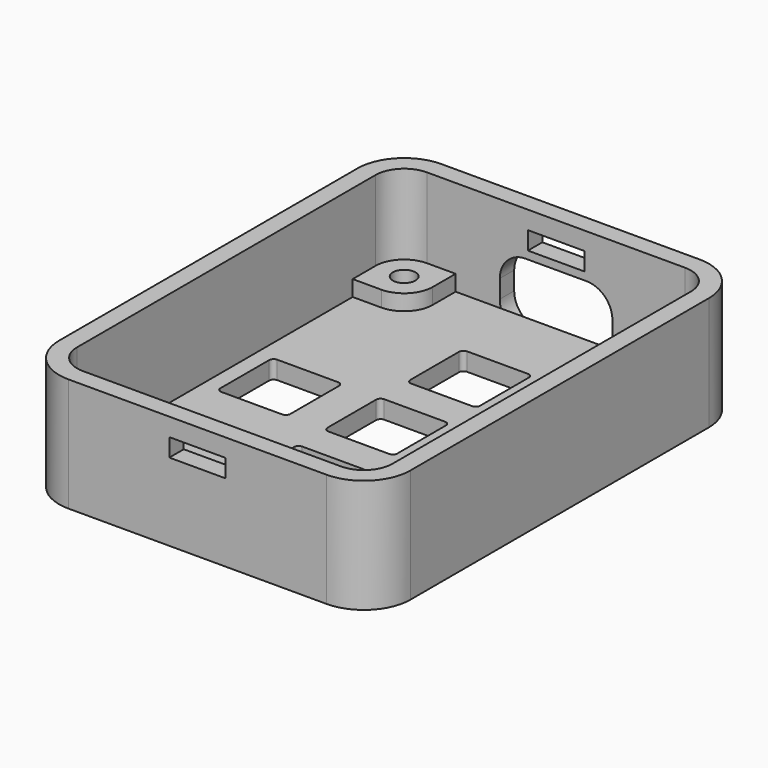
from build123d import *

# Parameters (mm, degrees)
BOX011_W          = 10
BOX011_H          = 3.2
BOX011_DEPTH      = 6.2
FILLET008_R       = 2.29
BOX013_W          = 5
BOX013_H          = 1.6
BOX013_DEPTH      = 1.6
BOX012_W          = 5
BOX012_H          = 1.6
BOX012_DEPTH      = 1.6
BOX009_W          = 6.2
BOX009_H          = 6.2
BOX009_DEPTH      = 2
FILLET004_R       = 0.4
BOX007_W          = 6.2
BOX007_H          = 6.2
BOX007_DEPTH      = 2
FILLET005_R       = 0.4
BOX010_W          = 6.2
BOX010_H          = 6.2
BOX010_DEPTH      = 2
FILLET006_R       = 0.4
BOX006_W          = 6.2
BOX006_H          = 6.2
BOX006_DEPTH      = 2
FILLET007_R       = 0.4
BOX008_W          = 6.2
BOX008_H          = 6.2
BOX008_DEPTH      = 2
FILLET003_R       = 0.4
CYLINDER003_R     = 1
CYLINDER003_DEPTH = 10
CYLINDER002_R     = 1
CYLINDER002_DEPTH = 10
CYLINDER001_R     = 1
CYLINDER001_DEPTH = 10
CYLINDER_R        = 1
CYLINDER_DEPTH    = 10
BOX002_W          = 5.08
BOX002_H          = 5.08
BOX002_DEPTH      = 3
BOX003_W          = 5.08
BOX003_H          = 5.08
BOX003_DEPTH      = 3
BOX004_W          = 5.08
BOX004_H          = 5.08
BOX004_DEPTH      = 3
BOX005_W          = 5.08
BOX005_H          = 5.08
BOX005_DEPTH      = 3
BOX001_W          = 28
BOX001_H          = 38.2
BOX001_DEPTH      = 10
BOX_W             = 31.2
BOX_H             = 41.4
BOX_DEPTH         = 10.1
FILLET_R          = 2.54
FILLET001_R       = 2.54
FILLET002_R       = 4.14


with BuildPart() as led:
    # Box011 → Box011 (new body)
    with BuildSketch(Plane(origin=(9, 38.2, 0), x_dir=(1, 0, 0), z_dir=(0, 0, 1))):
        with Locations((5, 1.6)):
            Rectangle(BOX011_W, BOX011_H)
    extrude(amount=BOX011_DEPTH)

    # Fillet008
    fillet008_edges = [led.edges().sort_by_distance(p)[0] for p in [
        (9, 39.8, 6.2),
        (9, 39.8, 0),
        (19, 39.8, 6.2),
        (19, 39.8, 0),
    ]]
    fillet(fillet008_edges, radius=FILLET008_R)


with BuildPart() as obj1:
    # Box013 → Box013 (new body)
    with BuildSketch(Plane(origin=(11.5, 38.2, 6.9), x_dir=(1, 0, 0), z_dir=(0, 0, 1))):
        with Locations((2.5, 0.8)):
            Rectangle(BOX013_W, BOX013_H)
    extrude(amount=BOX013_DEPTH)


with BuildPart() as nut:
    # Box012 → Box012 (new body)
    with BuildSketch(Plane(origin=(11.5, -1.6, 6.9), x_dir=(1, 0, 0), z_dir=(0, 0, 1))):
        with Locations((2.5, 0.8)):
            Rectangle(BOX012_W, BOX012_H)
    extrude(amount=BOX012_DEPTH)

    # Fusion003: union obj1
    add(obj1.part)


with BuildPart() as fillet004:
    # Box009 → Box009 (new body)
    with BuildSketch(Plane(origin=(1.4, 16.3, 0), x_dir=(1, 0, 0), z_dir=(0, 0, 1))):
        with Locations((3.1, 3.1)):
            Rectangle(BOX009_W, BOX009_H)
    extrude(amount=BOX009_DEPTH)

    # Fillet004
    fillet004_edges = [fillet004.edges().sort_by_distance(p)[0] for p in [
        (1.4, 16.3, 1),
        (1.4, 22.5, 1),
        (7.6, 16.3, 1),
        (7.6, 22.5, 1),
    ]]
    fillet(fillet004_edges, radius=FILLET004_R)


with BuildPart() as fillet005:
    # Box007 → Box007 (new body)
    with BuildSketch(Plane(origin=(10.9, 16.3, 0), x_dir=(1, 0, 0), z_dir=(0, 0, 1))):
        with Locations((3.1, 3.1)):
            Rectangle(BOX007_W, BOX007_H)
    extrude(amount=BOX007_DEPTH)

    # Fillet005
    fillet005_edges = [fillet005.edges().sort_by_distance(p)[0] for p in [
        (10.9, 16.3, 1),
        (10.9, 22.5, 1),
        (17.1, 16.3, 1),
        (17.1, 22.5, 1),
    ]]
    fillet(fillet005_edges, radius=FILLET005_R)


with BuildPart() as fillet006:
    # Box010 → Box010 (new body)
    with BuildSketch(Plane(origin=(20.4, 16.3, 0), x_dir=(1, 0, 0), z_dir=(0, 0, 1))):
        with Locations((3.1, 3.1)):
            Rectangle(BOX010_W, BOX010_H)
    extrude(amount=BOX010_DEPTH)

    # Fillet006
    fillet006_edges = [fillet006.edges().sort_by_distance(p)[0] for p in [
        (20.4, 16.3, 1),
        (20.4, 22.5, 1),
        (26.6, 16.3, 1),
        (26.6, 22.5, 1),
    ]]
    fillet(fillet006_edges, radius=FILLET006_R)


with BuildPart() as fillet007:
    # Box006 → Box006 (new body)
    with BuildSketch(Plane(origin=(10.9, 7.2, 0), x_dir=(1, 0, 0), z_dir=(0, 0, 1))):
        with Locations((3.1, 3.1)):
            Rectangle(BOX006_W, BOX006_H)
    extrude(amount=BOX006_DEPTH)

    # Fillet007
    fillet007_edges = [fillet007.edges().sort_by_distance(p)[0] for p in [
        (10.9, 7.2, 1),
        (10.9, 13.4, 1),
        (17.1, 7.2, 1),
        (17.1, 13.4, 1),
    ]]
    fillet(fillet007_edges, radius=FILLET007_R)


with BuildPart() as buttons:
    # Box008 → Box008 (new body)
    with BuildSketch(Plane(origin=(10.9, 25.5, 0), x_dir=(1, 0, 0), z_dir=(0, 0, 1))):
        with Locations((3.1, 3.1)):
            Rectangle(BOX008_W, BOX008_H)
    extrude(amount=BOX008_DEPTH)

    # Fillet003
    fillet003_edges = [buttons.edges().sort_by_distance(p)[0] for p in [
        (10.9, 25.5, 1),
        (10.9, 31.7, 1),
        (17.1, 25.5, 1),
        (17.1, 31.7, 1),
    ]]
    fillet(fillet003_edges, radius=FILLET003_R)

    # Fusion002: union Fillet004, Fillet005, Fillet006, Fillet007
    add(fillet004.part)
    add(fillet005.part)
    add(fillet006.part)
    add(fillet007.part)


with BuildPart() as zylinder003:
    # Cylinder003 → Cylinder003 (new body)
    with BuildSketch(Plane(origin=(25.46, 35.66, 0.4), x_dir=(1, 0, 0), z_dir=(0, 0, 1))):
        Circle(CYLINDER003_R)
    extrude(amount=CYLINDER003_DEPTH)


with BuildPart() as zylinder002:
    # Cylinder002 → Cylinder002 (new body)
    with BuildSketch(Plane(origin=(2.54, 35.66, 0.4), x_dir=(1, 0, 0), z_dir=(0, 0, 1))):
        Circle(CYLINDER002_R)
    extrude(amount=CYLINDER002_DEPTH)


with BuildPart() as zylinder001:
    # Cylinder001 → Cylinder001 (new body)
    with BuildSketch(Plane(origin=(25.46, 2.54, 0.4), x_dir=(1, 0, 0), z_dir=(0, 0, 1))):
        Circle(CYLINDER001_R)
    extrude(amount=CYLINDER001_DEPTH)


with BuildPart() as fusion001:
    # Cylinder → Cylinder (new body)
    with BuildSketch(Plane(origin=(2.54, 2.54, 0.4), x_dir=(1, 0, 0), z_dir=(0, 0, 1))):
        Circle(CYLINDER_R)
    extrude(amount=CYLINDER_DEPTH)

    # Fusion001: union Zylinder003, Zylinder002, Zylinder001
    add(zylinder003.part)
    add(zylinder002.part)
    add(zylinder001.part)


with BuildPart() as obj2:
    # Box002 → Box002 (new body)
    with BuildSketch(Plane.XY):
        with Locations((2.54, 2.54)):
            Rectangle(BOX002_W, BOX002_H)
    extrude(amount=BOX002_DEPTH)


with BuildPart() as obj3:
    # Box003 → Box003 (new body)
    with BuildSketch(Plane(origin=(22.92, 0, 0), x_dir=(1, 0, 0), z_dir=(0, 0, 1))):
        with Locations((2.54, 2.54)):
            Rectangle(BOX003_W, BOX003_H)
    extrude(amount=BOX003_DEPTH)


with BuildPart() as obj4:
    # Box004 → Box004 (new body)
    with BuildSketch(Plane(origin=(0, 33.12, 0), x_dir=(1, 0, 0), z_dir=(0, 0, 1))):
        with Locations((2.54, 2.54)):
            Rectangle(BOX004_W, BOX004_H)
    extrude(amount=BOX004_DEPTH)


with BuildPart() as obj5:
    # Box005 → Box005 (new body)
    with BuildSketch(Plane(origin=(22.92, 33.12, 0), x_dir=(1, 0, 0), z_dir=(0, 0, 1))):
        with Locations((2.54, 2.54)):
            Rectangle(BOX005_W, BOX005_H)
    extrude(amount=BOX005_DEPTH)


with BuildPart() as obj6:
    # Box001 → Box001 (new body)
    with BuildSketch(Plane.XY.offset(1.6)):
        with Locations((14, 19.1)):
            Rectangle(BOX001_W, BOX001_H)
    extrude(amount=BOX001_DEPTH)


with BuildPart() as cut005:
    # Box → Box (new body)
    with BuildSketch(Plane(origin=(-1.6, -1.6, 0), x_dir=(1, 0, 0), z_dir=(0, 0, 1))):
        with Locations((15.6, 20.7)):
            Rectangle(BOX_W, BOX_H)
    extrude(amount=BOX_DEPTH)

    # Cut: cut obj6
    add(obj6.part, mode=Mode.SUBTRACT)

    # Fusion: union obj2, obj3, obj4, obj5
    add(obj2.part)
    add(obj3.part)
    add(obj4.part)
    add(obj5.part)

    # Fillet
    fillet_edges = [cut005.edges().sort_by_distance(p)[0] for p in [
        (22.92, 33.12, 2.3),
        (22.92, 5.08, 2.3),
        (5.08, 33.12, 2.3),
        (5.08, 5.08, 2.3),
    ]]
    fillet(fillet_edges, radius=FILLET_R)

    # Fillet001
    fillet001_edges = [cut005.edges().sort_by_distance(p)[0] for p in [
        (28, 38.2, 6.55),
        (0, 38.2, 6.55),
        (28, 0, 6.55),
        (0, 0, 6.55),
    ]]
    fillet(fillet001_edges, radius=FILLET001_R)

    # Fillet002
    fillet002_edges = [cut005.edges().sort_by_distance(p)[0] for p in [
        (-1.6, -1.6, 5.05),
        (-1.6, 39.8, 5.05),
        (29.6, 39.8, 5.05),
        (29.6, -1.6, 5.05),
    ]]
    fillet(fillet002_edges, radius=FILLET002_R)

    # Cut001: cut Fusion001
    add(fusion001.part, mode=Mode.SUBTRACT)

    # Cut003: cut Buttons
    add(buttons.part, mode=Mode.SUBTRACT)

    # Cut004: cut Nut
    add(nut.part, mode=Mode.SUBTRACT)

    # Cut005: cut LED
    add(led.part, mode=Mode.SUBTRACT)


solid = cut005.part
